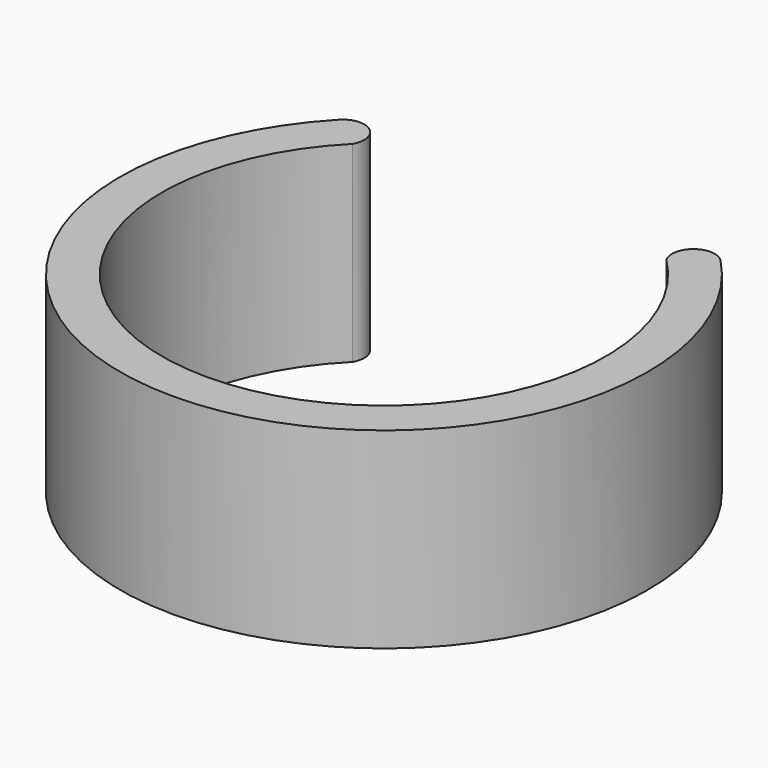
from build123d import *

# Parameters (mm, degrees)
PAD_DEPTH = 8


with BuildPart() as part:
    # Sketch → Pad (new body)
    with BuildSketch(Plane.XY):
        with BuildLine():
            ThreePointArc((-6.540738, 6.540738), (0, -9.25), (6.540738, 6.540738))
            ThreePointArc((7.934235, 7.618918), (6.761641, 7.694836), (6.540738, 6.540738))
            ThreePointArc((-7.934235, 7.618918), (0, -11), (7.934235, 7.618918))
            ThreePointArc((-6.540738, 6.540738), (-6.761641, 7.694836), (-7.934235, 7.618918))
        make_face()
    extrude(amount=PAD_DEPTH)


solid = part.part
